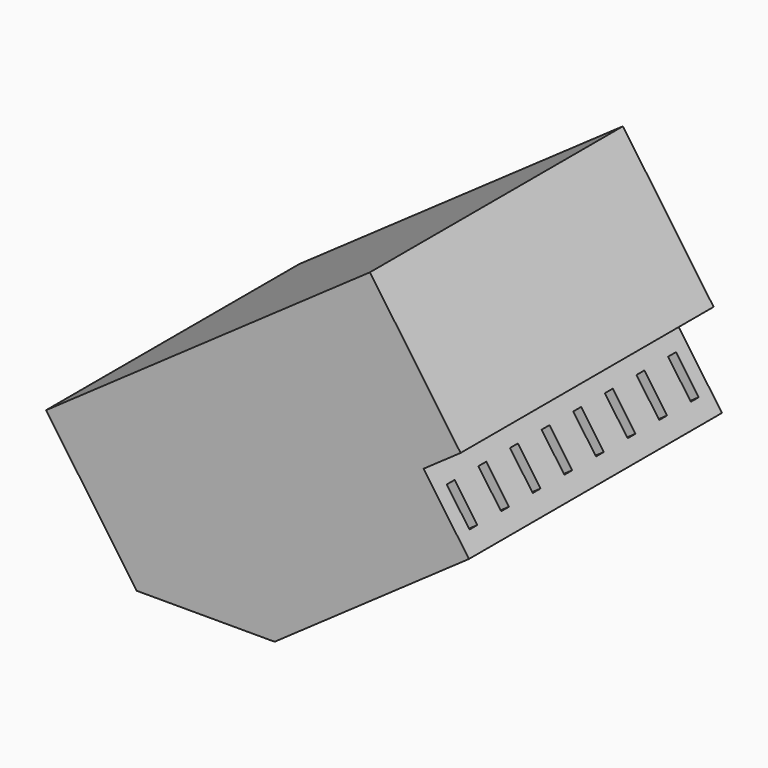
from build123d import *

# Parameters (mm, degrees)
F1_DEPTH = 203.2
F2_W     = 6.35
F2_H     = 25.4
F3_DEPTH = 127


with BuildPart() as f1:
    # F0 (on Front) → F1 (new body)
    with BuildSketch(Plane.XZ):
        Polygon((39.0150669992, 120.0144297529), (-169.0698442861, -25.6450007532), (-110.8060720837, -108.8789652674), (73.4977095011, 20.1336752934), (97.2788392016, 36.7804652388), align=None)
        Polygon((73.4977095011, 20.1336752934), (-110.8060720837, -108.8789652674), (-22.2213511689, -108.8789652674), (102.6295956023, -21.4833069637), align=None)
    extrude(amount=F1_DEPTH)

    # F2 (on face) → F3 (cut)
    with BuildSketch(Plane(origin=(58.786096923, 0, 41.1502657574), x_dir=(0, 1, 0), z_dir=(0.8192319342, 0, 0.5734623248))):
        with Locations((-190.5, -51.0540176069)):
            Rectangle(F2_W, F2_H)
        with Locations((-165.1, -51.0540176069)):
            Rectangle(F2_W, F2_H)
        with Locations((-139.7, -51.0540176069)):
            Rectangle(F2_W, F2_H)
        with Locations((-114.3, -51.0540176069)):
            Rectangle(F2_W, F2_H)
        with Locations((-88.9, -51.0540176069)):
            Rectangle(F2_W, F2_H)
        with Locations((-63.5, -51.0540176069)):
            Rectangle(F2_W, F2_H)
        with Locations((-38.1, -51.0540176069)):
            Rectangle(F2_W, F2_H)
        with Locations((-12.7, -51.0540176069)):
            Rectangle(F2_W, F2_H)
    extrude(amount=-F3_DEPTH, mode=Mode.SUBTRACT)


solid = f1.part
